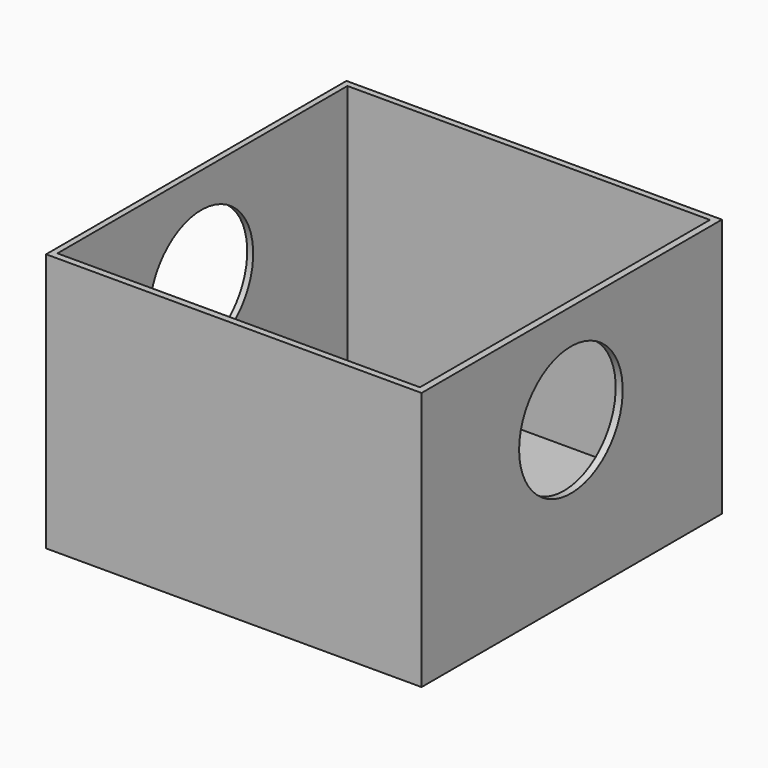
from build123d import *

# Parameters (mm, degrees)
F0_W     = 73.66
F0_H     = 73.66
F1_DEPTH = 50.8
F2_W     = 71.12
F2_H     = 71.12
F3_DEPTH = 48.26
F4_R     = 12.7
F5_DEPTH = 87.376


with BuildPart() as f1:
    # F0 (on Top) → F1 (new body)
    with BuildSketch(Plane.XY):
        with Locations((-36.83, 24.302927)):
            Rectangle(F0_W, F0_H)
    extrude(amount=F1_DEPTH)

    # F2 (on face) → F3 (cut)
    with BuildSketch(Plane.XY.offset(50.8)):
        with Locations((-36.933068, 24.351135)):
            Rectangle(F2_W, F2_H)
    extrude(amount=-F3_DEPTH, mode=Mode.SUBTRACT)

    # F4 (on face) → F5 (cut)
    with BuildSketch(Plane(origin=(-73.66, 0, 0), x_dir=(0, -1, 0), z_dir=(-1, 0, 0))):
        with Locations((-24.100089, 31.257417)):
            Circle(F4_R)
    extrude(amount=-F5_DEPTH, mode=Mode.SUBTRACT)


solid = f1.part
